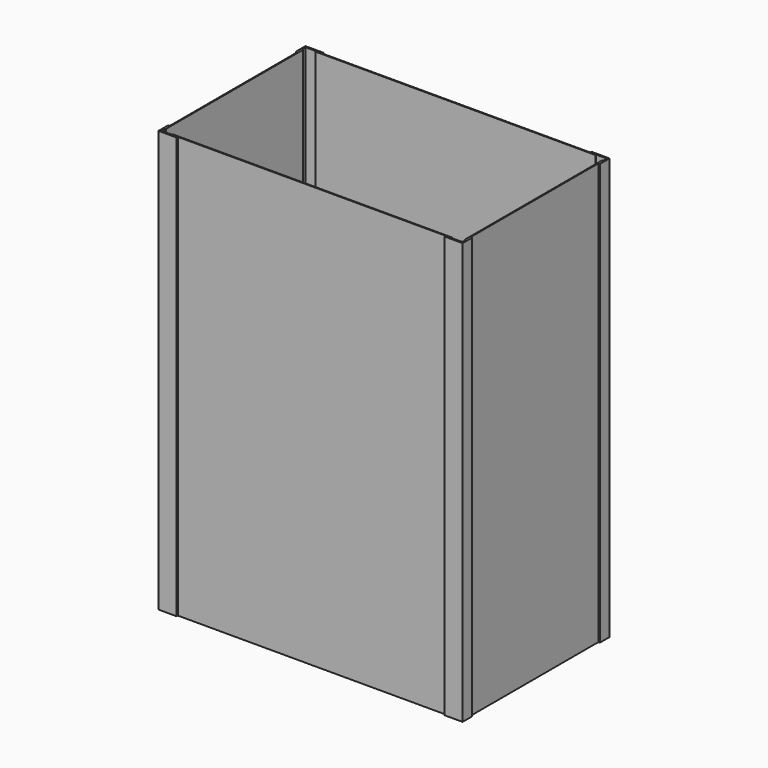
from build123d import *

# Parameters (mm, degrees)
F2_DEPTH = 1400
F3_W     = 930
F3_H     = 3
F3_W_2   = 3
F3_H_2   = 570
F4_DEPTH = 1400
F5_W     = 994
F5_H     = 594
F5_R     = 50
F6_DEPTH = 5


with BuildPart() as f2:
    # F1 (on Top) → F2 (new body, through all)
    with BuildSketch(Plane.XY):
        Polygon((-505, 305), (-505, 265), (-500, 265), (-500, 300), (-445, 300), (-445, 305), align=None)
        Polygon((505, 305), (445, 305), (445, 300), (500, 300), (500, 265), (505, 265), align=None)
        Polygon((445, -300), (445, -305), (505, -305), (505, -265), (500, -265), (500, -300), align=None)
        Polygon((-500, -265), (-505, -265), (-505, -305), (-445, -305), (-445, -300), (-500, -300), align=None)
    extrude(amount=F2_DEPTH)

    # F3 (on offset) → F4 (join, through all)
    with BuildSketch(Plane.XY.offset(1400)):
        with Locations((0, 298.5)):
            Rectangle(F3_W, F3_H)
        with Locations((498.5, 0)):
            Rectangle(F3_W_2, F3_H_2)
        with Locations((0, -298.5)):
            Rectangle(F3_W, F3_H)
        with Locations((-498.5, 0)):
            Rectangle(F3_W_2, F3_H_2)
    extrude(amount=-F4_DEPTH)


with BuildPart() as f6:
    # F5 (on Top) → F6 (new body)
    with BuildSketch(Plane.XY):
        Rectangle(F5_W, F5_H)
        with Locations((-250, 0)):
            Circle(F5_R, mode=Mode.SUBTRACT)
        with Locations((250, 0)):
            Circle(F5_R, mode=Mode.SUBTRACT)
    extrude(amount=F6_DEPTH)


solid = Compound([f2.part, f6.part])
